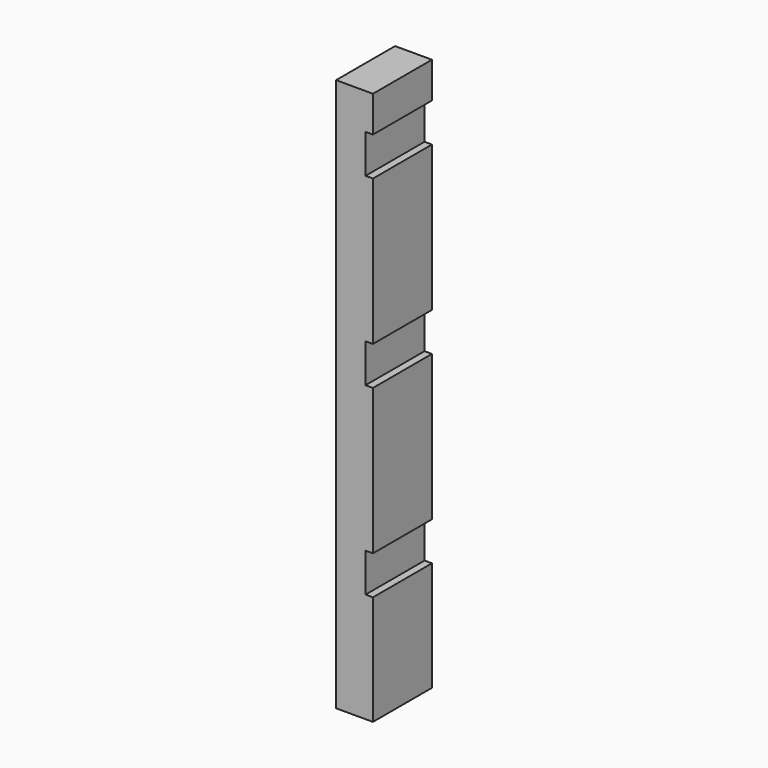
from build123d import *

# Parameters (mm, degrees)
F0_W     = 8
F0_H     = 20
F1_DEPTH = 150
F2_W     = 20
F2_H     = 9.75
F2_H_2   = 39.5
F2_H_3   = 29.75
F3_DEPTH = 2
F4_W     = 8
F4_H     = 10
F5_DEPTH = 1


with BuildPart() as f1:
    # F0 (on Top) → F1 (new body)
    with BuildSketch(Plane.XY):
        with Locations((4, 10)):
            Rectangle(F0_W, F0_H)
    extrude(amount=F1_DEPTH)

    # F2 (on face) → F3 (join)
    with BuildSketch(Plane.YZ.offset(8)):
        with Locations((10, 145.125)):
            Rectangle(F2_W, F2_H)
        with Locations((10, 110)):
            Rectangle(F2_W, F2_H_2)
        with Locations((10, 60)):
            Rectangle(F2_W, F2_H_2)
        with Locations((10, 14.875)):
            Rectangle(F2_W, F2_H_3)
    extrude(amount=F3_DEPTH)

    # F4 (on face) → F5 (cut)
    with BuildSketch(Plane(origin=(0, 0, 0), x_dir=(0, -1, 0), z_dir=(-1, 0, 0))):
        with Locations((-10, 115)):
            Rectangle(F4_W, F4_H)
        with Locations((-10, 65)):
            Rectangle(F4_W, F4_H)
        with Locations((-10, 15)):
            Rectangle(F4_W, F4_H)
    extrude(amount=-F5_DEPTH, mode=Mode.SUBTRACT)


solid = f1.part
